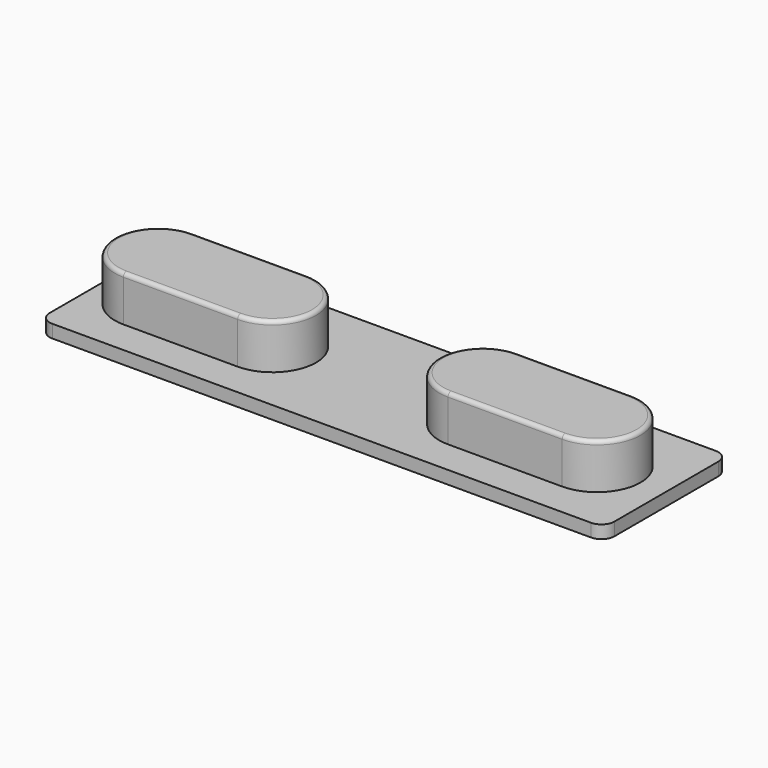
from build123d import *

# Parameters (mm, degrees)
F0_W     = 43.5
F0_H     = 12
F1_DEPTH = 1
F2_W     = 8.8
F2_H     = 6.7
F3_DEPTH = 3.5
F4_R     = 1
F5_R     = 0.3


with BuildPart() as f1:
    # F0 (on Top) → F1 (new body)
    with BuildSketch(Plane.XY):
        with Locations((-4.144736, 0.530427)):
            Rectangle(F0_W, F0_H)
    extrude(amount=F1_DEPTH)

    # F2 (on face) → F3 (join)
    with BuildSketch(Plane.XY.offset(1)):
        with Locations((-17.094736, 0.480427)):
            Rectangle(F2_W, F2_H)
        with BuildLine():
            Line((-21.494736, -2.869573), (-21.494736, 3.830427))
            ThreePointArc((-21.494736, 3.830427), (-24.844736, 0.480427), (-21.494736, -2.869573))
        make_face()
        with BuildLine():
            ThreePointArc((-12.694736, -2.869573), (-9.344736, 0.480427), (-12.694736, 3.830427))
            Line((-12.694736, 3.830427), (-12.694736, -2.869573))
        make_face()
        with BuildLine():
            Line((12.305264, 3.830427), (3.505264, 3.830427))
            ThreePointArc((3.505264, 3.830427), (0.155264, 0.480427), (3.505264, -2.869573))
            Line((3.505264, -2.869573), (12.305264, -2.869573))
            ThreePointArc((12.305264, -2.869573), (15.655264, 0.480427), (12.305264, 3.830427))
        make_face()
    extrude(amount=F3_DEPTH)

    # F4
    f4_edges = [f1.edges().sort_by_distance(p)[0] for p in [
        (-25.894736, -5.469573, 0.5),
        (17.605264, 6.530427, 0.5),
        (17.605264, -5.469573, 0.5),
        (-25.894736, 6.530427, 0.5),
    ]]
    fillet(f4_edges, radius=F4_R)

    # F5
    f5_edges = [f1.edges().sort_by_distance(p)[0] for p in [
        (-17.094736, 3.830427, 4.5),
        (7.905264, 3.830427, 4.5),
    ]]
    fillet(f5_edges, radius=F5_R)


solid = f1.part
